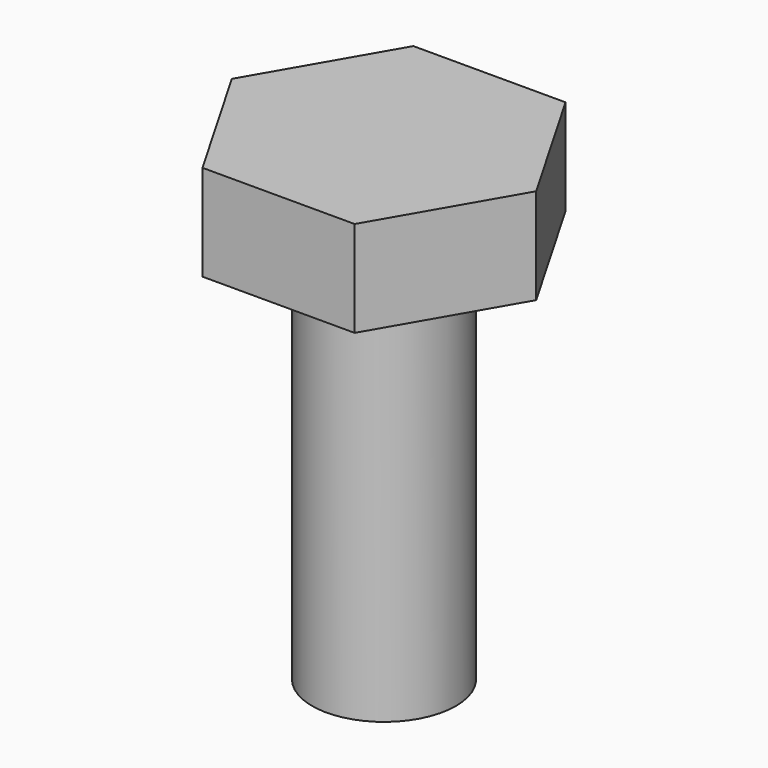
from build123d import *

# Parameters (mm, degrees)
F1_DEPTH = 2
F2_R     = 1.5
F3_DEPTH = 8


with BuildPart() as f1:
    # F0 (on Top) → F1 (new body)
    with BuildSketch(Plane.XY):
        Polygon((3.175426, 0), (1.587713, 2.75), (-1.587713, 2.75), (-3.175426, 0), (-1.587713, -2.75), (1.587713, -2.75), align=None)
    extrude(amount=F1_DEPTH)

    # F2 (on face) → F3 (join)
    with BuildSketch(Plane(origin=(0, 0, 0), x_dir=(1, 0, 0), z_dir=(0, 0, -1))):
        Circle(F2_R)
    extrude(amount=F3_DEPTH)


with BuildPart() as f4_1:
    # F4: copy of F1
    add(f1.part)


solid = Compound([f1.part, f4_1.part])
